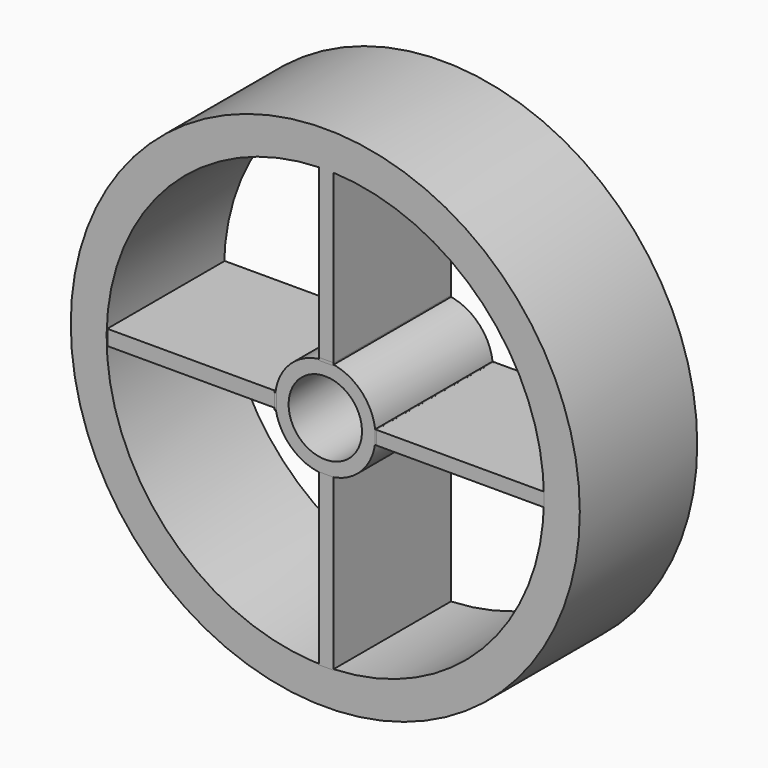
from build123d import *

# Parameters (mm, degrees)
F0_R      = 69.362817
F2_DEPTH  = 40
F3_R      = 59.595856
F4_DEPTH  = 40
F1_R      = 13.693812
F5_DEPTH  = 40
F6_W      = 3.941379
F6_H      = 45.917072
F7_DEPTH  = 40
F8_W      = 45.522932
F8_H      = 4.138448
F8_W_2    = 45.720002
F8_H_2    = 3.74431
F8_W_3    = 3.941379
F8_H_3    = 46.311209
F9_DEPTH  = 40
F11_D     = 20
F12_W     = 0.330953
F12_H     = 3.745289
F12_W_2   = 3.936603
F12_H_2   = 0.731638
F12_W_3   = 0.517858
F12_H_3   = 4.143185
F13_DEPTH = 40


with BuildPart() as f2:
    # F0 (on Front) → F2 (new body)
    with BuildSketch(Plane.XZ):
        Circle(F0_R)
    extrude(amount=F2_DEPTH)

    # F3 (on face) → F4 (cut)
    with BuildSketch(Plane.XZ.offset(40)):
        Circle(F3_R)
    extrude(amount=-F4_DEPTH, mode=Mode.SUBTRACT)

    # F6 (on Front) → F7 (join)
    with BuildSketch(Plane.XZ):
        with Locations((0.295602, 36.851898)):
            Rectangle(F6_W, F6_H)
    extrude(amount=F7_DEPTH)


with BuildPart() as f5:
    # F1 (on Front) → F5 (new body)
    with BuildSketch(Plane.XZ):
        Circle(F1_R)
    extrude(amount=F5_DEPTH)

    # F11 (through all)
    with Locations(Plane.XZ.offset(40)):
        with Locations((0, 0)):
            Hole(F11_D / 2)


with BuildPart() as f9:
    # F8 (on Front) → F9 (new body)
    with BuildSketch(Plane.XZ):
        with Locations((-36.654828, 0)):
            Rectangle(F8_W, F8_H)
        with Locations((36.753361, -0.197069)):
            Rectangle(F8_W_2, F8_H_2)
        with Locations((0.295602, -36.654829)):
            Rectangle(F8_W_3, F8_H_3)
    extrude(amount=F9_DEPTH)


with BuildPart() as f13:
    # F12 (on Front) → F13 (new body)
    with BuildSketch(Plane.XZ):
        with Locations((13.744317, -0.188713)):
            Rectangle(F12_W, F12_H)
        with Locations((0.282053, 13.589272)):
            Rectangle(F12_W_2, F12_H_2)
        with Locations((-13.621716, -0.46342)):
            Rectangle(F12_W_3, F12_H_3)
    extrude(amount=F13_DEPTH)


solid = Compound([f2.part, f5.part, f9.part, f13.part])
